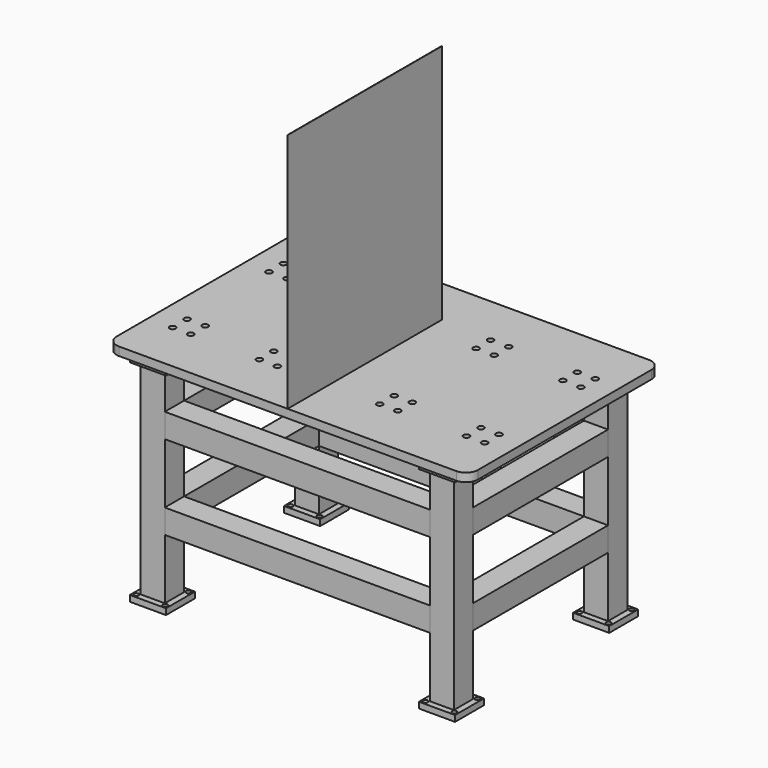
from build123d import *

# Parameters (mm, degrees)
F0_W      = 150
F0_H      = 150
F0_R      = 10
F1_DEPTH  = 25
F2_W      = 100
F2_H      = 100
F2_W_2    = 90
F2_H_2    = 90
F3_DEPTH  = 850
F4_W      = 150
F4_H      = 150
F4_R      = 10
F5_DEPTH  = 25
F6_W      = 100
F6_H      = 100
F6_W_2    = 90
F6_H_2    = 90
F7_DEPTH  = 1100
F8_W      = 100
F8_H      = 100
F8_W_2    = 90
F8_H_2    = 90
F9_DEPTH  = 700
F10_W     = 1500
F10_H     = 1000
F11_DEPTH = 35
F12_R     = 10
F13_DEPTH = 20
F14_R     = 50
F15_R     = 12.5
F16_DEPTH = 35
F17_W     = 1
F17_H     = 800
F18_DEPTH = 1000


with BuildPart() as f1:
    # F0 (on Top) → F1 (new body)
    with BuildSketch(Plane.XY):
        with Locations((-600, 400)):
            Rectangle(F0_W, F0_H)
        with Locations((-660, 340)):
            Circle(F0_R, mode=Mode.SUBTRACT)
        with Locations((-540, 340)):
            Circle(F0_R, mode=Mode.SUBTRACT)
        with Locations((-660, 460)):
            Circle(F0_R, mode=Mode.SUBTRACT)
        with Locations((-540, 460)):
            Circle(F0_R, mode=Mode.SUBTRACT)
        with Locations((600, 400)):
            Rectangle(F0_W, F0_H)
        with Locations((540, 340)):
            Circle(F0_R, mode=Mode.SUBTRACT)
        with Locations((660, 340)):
            Circle(F0_R, mode=Mode.SUBTRACT)
        with Locations((540, 460)):
            Circle(F0_R, mode=Mode.SUBTRACT)
        with Locations((660, 460)):
            Circle(F0_R, mode=Mode.SUBTRACT)
        Polygon((675, -475), (675, -325), (525, -325), (525, -400), (525, -475), align=None)
        with Locations((540, -460)):
            Circle(F0_R, mode=Mode.SUBTRACT)
        with Locations((660, -460)):
            Circle(F0_R, mode=Mode.SUBTRACT)
        with Locations((540, -340)):
            Circle(F0_R, mode=Mode.SUBTRACT)
        with Locations((660, -340)):
            Circle(F0_R, mode=Mode.SUBTRACT)
        Polygon((-525, -475), (-525, -400), (-525, -325), (-675, -325), (-675, -475), align=None)
        with Locations((-660, -460)):
            Circle(F0_R, mode=Mode.SUBTRACT)
        with Locations((-540, -460)):
            Circle(F0_R, mode=Mode.SUBTRACT)
        with Locations((-660, -340)):
            Circle(F0_R, mode=Mode.SUBTRACT)
        with Locations((-540, -340)):
            Circle(F0_R, mode=Mode.SUBTRACT)
    extrude(amount=F1_DEPTH)

    # F2 (on face) → F3 (join)
    with BuildSketch(Plane.XY.offset(25)):
        with Locations((-600, 400)):
            Rectangle(F2_W, F2_H)
        with Locations((-600, 400)):
            Rectangle(F2_W_2, F2_H_2, mode=Mode.SUBTRACT)
        with Locations((600, 400)):
            Rectangle(F2_W, F2_H)
        with Locations((600, 400)):
            Rectangle(F2_W_2, F2_H_2, mode=Mode.SUBTRACT)
        with Locations((600, -400)):
            Rectangle(F2_W, F2_H)
        with Locations((600, -400)):
            Rectangle(F2_W_2, F2_H_2, mode=Mode.SUBTRACT)
        with Locations((-600, -400)):
            Rectangle(F2_W, F2_H)
        with Locations((-600, -400)):
            Rectangle(F2_W_2, F2_H_2, mode=Mode.SUBTRACT)
    extrude(amount=F3_DEPTH)

    # F4 (on face) → F5 (join)
    with BuildSketch(Plane.XY.offset(875)):
        with Locations((-600, 400)):
            Rectangle(F4_W, F4_H)
        with Locations((-660, 340)):
            Circle(F4_R, mode=Mode.SUBTRACT)
        with Locations((-540, 340)):
            Circle(F4_R, mode=Mode.SUBTRACT)
        with Locations((-660, 460)):
            Circle(F4_R, mode=Mode.SUBTRACT)
        with Locations((-540, 460)):
            Circle(F4_R, mode=Mode.SUBTRACT)
        Polygon((-675, -325), (-675, -400), (-600, -400), (-525, -400), (-525, -325), align=None)
        with Locations((-660, -340)):
            Circle(F4_R, mode=Mode.SUBTRACT)
        with Locations((-540, -340)):
            Circle(F4_R, mode=Mode.SUBTRACT)
        Polygon((525, -325), (525, -400), (525, -475), (675, -475), (675, -325), align=None)
        with Locations((540, -460)):
            Circle(F4_R, mode=Mode.SUBTRACT)
        with Locations((660, -460)):
            Circle(F4_R, mode=Mode.SUBTRACT)
        with Locations((540, -340)):
            Circle(F4_R, mode=Mode.SUBTRACT)
        with Locations((660, -340)):
            Circle(F4_R, mode=Mode.SUBTRACT)
        Polygon((-600, -400), (-675, -400), (-675, -475), (-525, -475), (-525, -400), align=None)
        with Locations((-660, -460)):
            Circle(F4_R, mode=Mode.SUBTRACT)
        with Locations((-540, -460)):
            Circle(F4_R, mode=Mode.SUBTRACT)
        with Locations((600, 400)):
            Rectangle(F4_W, F4_H)
        with Locations((540, 340)):
            Circle(F4_R, mode=Mode.SUBTRACT)
        with Locations((660, 340)):
            Circle(F4_R, mode=Mode.SUBTRACT)
        with Locations((540, 460)):
            Circle(F4_R, mode=Mode.SUBTRACT)
        with Locations((660, 460)):
            Circle(F4_R, mode=Mode.SUBTRACT)
    extrude(amount=F5_DEPTH)


with BuildPart() as f7:
    # F6 (on face) → F7 (new body, through all)
    with BuildSketch(Plane(origin=(550, 0, 0), x_dir=(0, -1, 0), z_dir=(-1, 0, 0))):
        with Locations((400, 675)):
            Rectangle(F6_W, F6_H)
        with Locations((400, 675)):
            Rectangle(F6_W_2, F6_H_2, mode=Mode.SUBTRACT)
        with Locations((400, 325)):
            Rectangle(F6_W, F6_H)
        with Locations((400, 325)):
            Rectangle(F6_W_2, F6_H_2, mode=Mode.SUBTRACT)
        with Locations((-400, 675)):
            Rectangle(F6_W, F6_H)
        with Locations((-400, 675)):
            Rectangle(F6_W_2, F6_H_2, mode=Mode.SUBTRACT)
        with Locations((-400, 325)):
            Rectangle(F6_W, F6_H)
        with Locations((-400, 325)):
            Rectangle(F6_W_2, F6_H_2, mode=Mode.SUBTRACT)
    extrude(amount=F7_DEPTH)


with BuildPart() as f9:
    # F8 (on face) → F9 (new body, through all)
    with BuildSketch(Plane(origin=(0, -350, 0), x_dir=(-1, 0, 0), z_dir=(0, 1, 0))):
        with Locations((-600, 675)):
            Rectangle(F8_W, F8_H)
        with Locations((-600, 675)):
            Rectangle(F8_W_2, F8_H_2, mode=Mode.SUBTRACT)
        with Locations((-600, 325)):
            Rectangle(F8_W, F8_H)
        with Locations((-600, 325)):
            Rectangle(F8_W_2, F8_H_2, mode=Mode.SUBTRACT)
        with Locations((600, 675)):
            Rectangle(F8_W, F8_H)
        with Locations((600, 675)):
            Rectangle(F8_W_2, F8_H_2, mode=Mode.SUBTRACT)
        with Locations((600, 325)):
            Rectangle(F8_W, F8_H)
        with Locations((600, 325)):
            Rectangle(F8_W_2, F8_H_2, mode=Mode.SUBTRACT)
    extrude(amount=F9_DEPTH)


with BuildPart() as f11:
    # F10 (on face) → F11 (new body)
    with BuildSketch(Plane.XY.offset(900)):
        Rectangle(F10_W, F10_H)
    extrude(amount=F11_DEPTH)

    # F12 (on face) → F13 (cut)
    with BuildSketch(Plane(origin=(0, 0, 900), x_dir=(1, 0, 0), z_dir=(0, 0, -1))):
        with Locations((-660, -460)):
            Circle(F12_R)
        with Locations((-660, -340)):
            Circle(F12_R)
        with Locations((-540, -340)):
            Circle(F12_R)
        with Locations((-540, -460)):
            Circle(F12_R)
        with Locations((-660, 340)):
            Circle(F12_R)
        with Locations((-660, 460)):
            Circle(F12_R)
        with Locations((-540, 460)):
            Circle(F12_R)
        with Locations((-540, 340)):
            Circle(F12_R)
        with Locations((540, 460)):
            Circle(F12_R)
        with Locations((660, 460)):
            Circle(F12_R)
        with Locations((660, 340)):
            Circle(F12_R)
        with Locations((540, 340)):
            Circle(F12_R)
        with Locations((660, -340)):
            Circle(F12_R)
        with Locations((540, -340)):
            Circle(F12_R)
        with Locations((660, -460)):
            Circle(F12_R)
        with Locations((540, -460)):
            Circle(F12_R)
    extrude(amount=-F13_DEPTH, mode=Mode.SUBTRACT)

    # F14
    f14_edges = [f11.edges().sort_by_distance(p)[0] for p in [
        (750, 500, 917.5),
        (750, -500, 917.5),
        (-750, 500, 917.5),
        (-750, -500, 917.5),
    ]]
    fillet(f14_edges, radius=F14_R)

    # F15 (on face) → F16 (cut, through all)
    with BuildSketch(Plane.XY.offset(935)):
        with Locations((-287.5, 287.5)):
            Circle(F15_R)
        with Locations((-212.5, 287.5)):
            Circle(F15_R)
        with Locations((-287.5, 212.5)):
            Circle(F15_R)
        with Locations((-212.5, 212.5)):
            Circle(F15_R)
        with Locations((212.5, 287.5)):
            Circle(F15_R)
        with Locations((287.5, 287.5)):
            Circle(F15_R)
        with Locations((212.5, 212.5)):
            Circle(F15_R)
        with Locations((287.5, 212.5)):
            Circle(F15_R)
        with Locations((287.5, -287.5)):
            Circle(F15_R)
        with Locations((212.5, -287.5)):
            Circle(F15_R)
        with Locations((-212.5, -287.5)):
            Circle(F15_R)
        with Locations((-287.5, -287.5)):
            Circle(F15_R)
        with Locations((287.5, -212.5)):
            Circle(F15_R)
        with Locations((212.5, -212.5)):
            Circle(F15_R)
        with Locations((-212.5, -212.5)):
            Circle(F15_R)
        with Locations((-287.5, -212.5)):
            Circle(F15_R)
        with Locations((-647.5, 212.5)):
            Circle(F15_R)
        with Locations((-572.5, -212.5)):
            Circle(F15_R)
        with Locations((-572.5, -287.5)):
            Circle(F15_R)
        with Locations((-572.5, 287.5)):
            Circle(F15_R)
        with Locations((-647.5, 287.5)):
            Circle(F15_R)
        with Locations((-572.5, 212.5)):
            Circle(F15_R)
        with Locations((-647.5, -287.5)):
            Circle(F15_R)
        with Locations((-647.5, -212.5)):
            Circle(F15_R)
        with Locations((647.5, 287.5)):
            Circle(F15_R)
        with Locations((647.5, 212.5)):
            Circle(F15_R)
        with Locations((572.5, 287.5)):
            Circle(F15_R)
        with Locations((572.5, -212.5)):
            Circle(F15_R)
        with Locations((572.5, 212.5)):
            Circle(F15_R)
        with Locations((647.5, -287.5)):
            Circle(F15_R)
        with Locations((647.5, -212.5)):
            Circle(F15_R)
        with Locations((572.5, -287.5)):
            Circle(F15_R)
    extrude(amount=-F16_DEPTH, mode=Mode.SUBTRACT)


with BuildPart() as f18:
    # F17 (on face) → F18 (new body)
    with BuildSketch(Plane.XY.offset(935)):
        with Locations((-0.5, -100)):
            Rectangle(F17_W, F17_H)
    extrude(amount=F18_DEPTH)


solid = Compound([f1.part, f7.part, f9.part, f11.part, f18.part])
